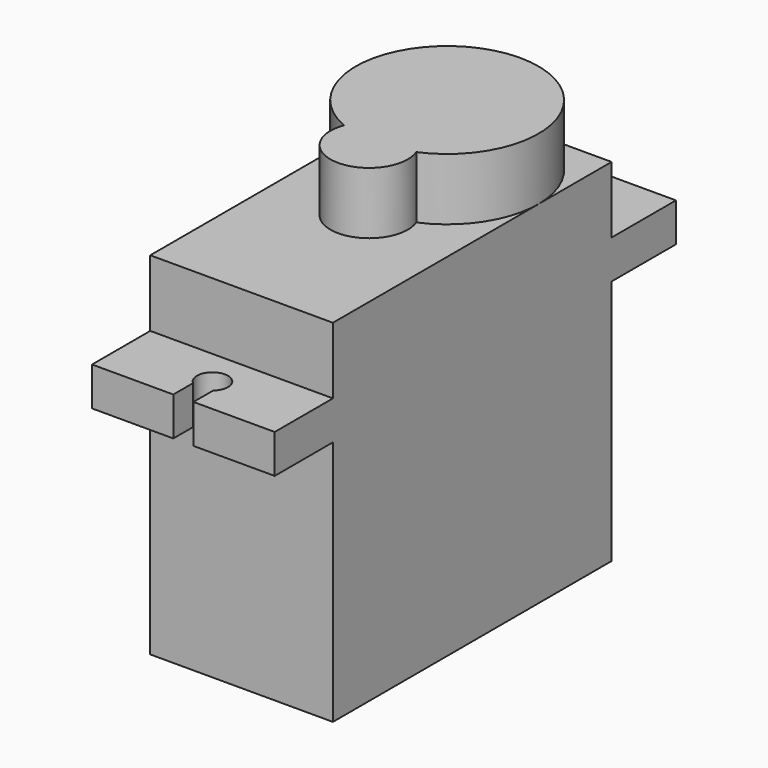
from build123d import *

# Parameters (mm, degrees)
BOX004_W          = 1.3
BOX004_H          = 3.3
BOX004_DEPTH      = 10
BOX003_W          = 1.3
BOX003_H          = 3.3
BOX003_DEPTH      = 10
CYLINDER009_R     = 1
CYLINDER009_DEPTH = 10
CYLINDER008_R     = 1
CYLINDER008_DEPTH = 10
CYLINDER007_R     = 2.5
CYLINDER007_DEPTH = 4
CYLINDER006_R     = 5.9
CYLINDER006_DEPTH = 4
BOX002_W          = 11.8
BOX002_H          = 32.4
BOX002_DEPTH      = 2.5
BOX001_W          = 11.8
BOX001_H          = 22.5
BOX001_DEPTH      = 22.7
SKETCH019_W       = 3.6
SKETCH019_H       = 1.2
POCKET008_DEPTH   = 3


with BuildPart() as cubo003:
    # Box004 → Box004 (new body)
    with BuildSketch(Plane(origin=(5.25, 25, 12), x_dir=(1, 0, 0), z_dir=(0, 0, 1))):
        with Locations((0.65, 1.65)):
            Rectangle(BOX004_W, BOX004_H)
    extrude(amount=BOX004_DEPTH)


with BuildPart() as obj1:
    # Box003 → Box003 (new body)
    with BuildSketch(Plane(origin=(5.25, -6, 12), x_dir=(1, 0, 0), z_dir=(0, 0, 1))):
        with Locations((0.65, 1.65)):
            Rectangle(BOX003_W, BOX003_H)
    extrude(amount=BOX003_DEPTH)

    # Fusion005: union Cubo003
    add(cubo003.part)


with BuildPart() as taladro2:
    # Cylinder009 → Cylinder009 (new body)
    with BuildSketch(Plane(origin=(5.9, 24.85, 11), x_dir=(1, 0, 0), z_dir=(0, 0, 1))):
        Circle(CYLINDER009_R)
    extrude(amount=CYLINDER009_DEPTH)


with BuildPart() as taladros001:
    # Cylinder008 → Cylinder008 (new body)
    with BuildSketch(Plane(origin=(5.9, -2.35, 11), x_dir=(1, 0, 0), z_dir=(0, 0, 1))):
        Circle(CYLINDER008_R)
    extrude(amount=CYLINDER008_DEPTH)

    # Fusion004: union Taladro2
    add(taladro2.part)

    # Fusion006: union obj1
    add(obj1.part)


with BuildPart() as cilindro001:
    # Cylinder007 → Cylinder007 (new body)
    with BuildSketch(Plane(origin=(5.9, 10.3, 22.7), x_dir=(1, 0, 0), z_dir=(0, 0, 1))):
        Circle(CYLINDER007_R)
    extrude(amount=CYLINDER007_DEPTH)


with BuildPart() as fusion001004:
    # Cylinder006 → Cylinder006 (new body)
    with BuildSketch(Plane(origin=(5.9, 16.6, 22.7), x_dir=(1, 0, 0), z_dir=(0, 0, 1))):
        Circle(CYLINDER006_R)
    extrude(amount=CYLINDER006_DEPTH)

    # Fusion001004: union Cilindro001
    add(cilindro001.part)


with BuildPart() as cubo001:
    # Box002 → Box002 (new body)
    with BuildSketch(Plane(origin=(0, -4.7, 15.9), x_dir=(1, 0, 0), z_dir=(0, 0, 1))):
        with Locations((5.9, 16.2)):
            Rectangle(BOX002_W, BOX002_H)
    extrude(amount=BOX002_DEPTH)


with BuildPart() as ranura_cable:
    # Box001 → Box001 (new body)
    with BuildSketch(Plane.XY):
        with Locations((5.9, 11.25)):
            Rectangle(BOX001_W, BOX001_H)
    extrude(amount=BOX001_DEPTH)

    # Fusion001003: union Cubo001
    add(cubo001.part)

    # Fusion003: union Fusion001004
    add(fusion001004.part)

    # Cut002: cut Taladros001
    add(taladros001.part, mode=Mode.SUBTRACT)


with BuildPart() as ranura_cable_1:
    # Cut002 placement: moved
    add(ranura_cable.part.moved(Location((-5.9, 0, 0))))

    # Sketch019 (on Face3 of Cut002) → Pocket008 (cut)
    with BuildSketch(Plane(origin=(-5.9, 22.5, 0), x_dir=(-1, 0, 0), z_dir=(0, 1, 0))):
        with Locations((-5.9, 5.1)):
            Rectangle(SKETCH019_W, SKETCH019_H)
    extrude(amount=-POCKET008_DEPTH, mode=Mode.SUBTRACT)


solid = ranura_cable_1.part
